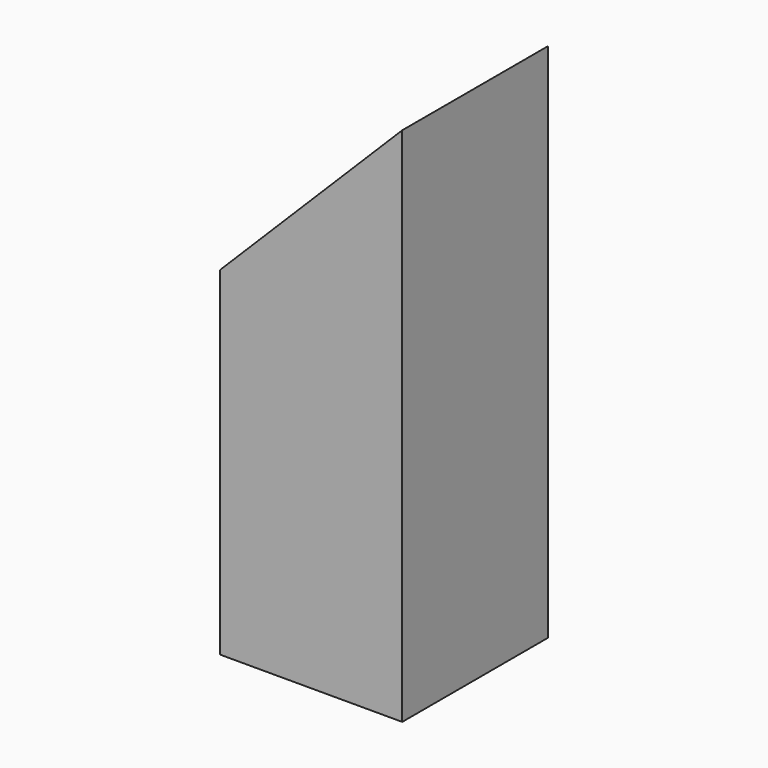
from build123d import *

# Parameters (mm, degrees)
F0_W     = 14
F0_H     = 14
F1_DEPTH = 40
F3_DEPTH = 25


with BuildPart() as f1:
    # F0 (on Top) → F1 (new body)
    with BuildSketch(Plane.XY):
        Rectangle(F0_W, F0_H)
    extrude(amount=F1_DEPTH)

    # F2 (on face) → F3 (cut)
    with BuildSketch(Plane.XZ.offset(7)):
        Polygon((-7, 26), (7, 40), (-7, 40), align=None)
    extrude(amount=-F3_DEPTH, mode=Mode.SUBTRACT)


solid = f1.part
